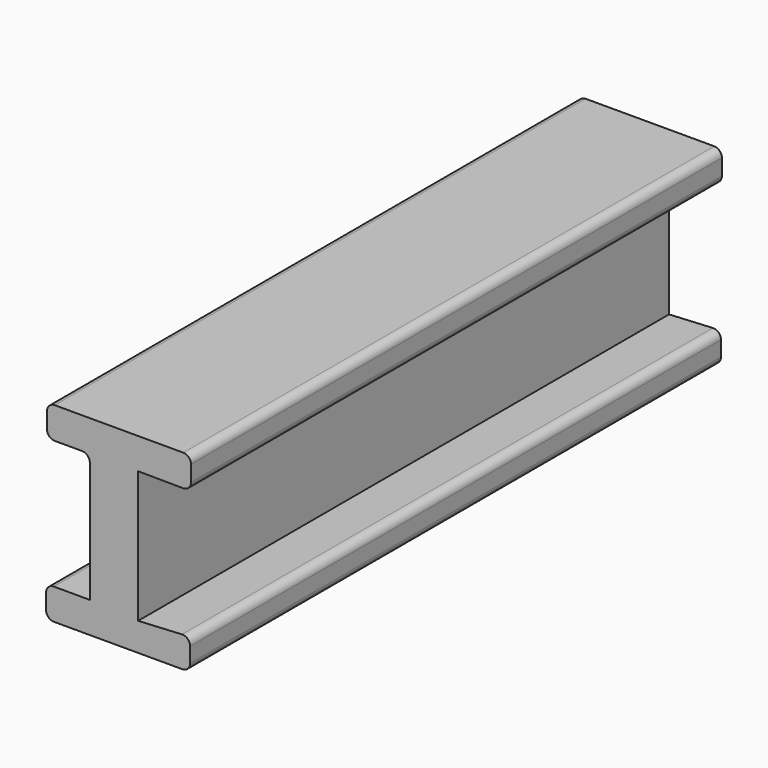
from build123d import *

# Parameters (mm, degrees)
F1_DEPTH = 76.2
F2_DEPTH = 150.114
F3_DEPTH = 209.042
F4_R     = 5.08


with BuildPart() as f1:
    # F0 (on Front) → F1 (new body)
    with BuildSketch(Plane.XZ):
        Polygon((-46.1966358125, 39.4689701498), (-18.0899463594, 39.4689701498), (-18.0899463594, -44.8510982096), (-46.7946529388, -44.8510982096), (-46.7946529388, -65.1835948229), (47.6916655898, -65.1835948229), (47.6916655898, -44.8510982096), (13.6048318818, -46.645142138), (13.6048318818, 39.7679805756), (48.2896827161, 39.4689701498), (48.2896827161, 60.1004771888), (-46.1966358125, 60.1004771888), align=None)
    extrude(amount=F1_DEPTH)

    # F2 (add): a face of the model
    f2_faces = [f1.faces().sort_by_distance(p)[0] for p in [
        (-0.6124565999, 0, -2.2518569058),
    ]]
    extrude(f2_faces, amount=F2_DEPTH)

    # F3 (add): a face of the model
    f3_faces = [f1.faces().sort_by_distance(p)[0] for p in [
        (-0.6124565999, 150.114, -2.2518569058),
    ]]
    extrude(f3_faces, amount=F3_DEPTH)

    # F4
    f4_edges = [f1.edges().sort_by_distance(p)[0] for p in [
        (-46.196636, 141.478, 39.46897),
        (-18.089946, 141.478, 39.46897),
        (-46.794653, 141.478, -44.851098),
        (-46.794653, 141.478, -65.183595),
        (47.691666, 141.478, -65.183595),
        (47.691666, 141.478, -44.851098),
        (48.289683, 141.478, 39.46897),
        (48.289683, 141.478, 60.100477),
        (-46.196636, 141.478, 60.100477),
    ]]
    fillet(f4_edges, radius=F4_R)


solid = f1.part
